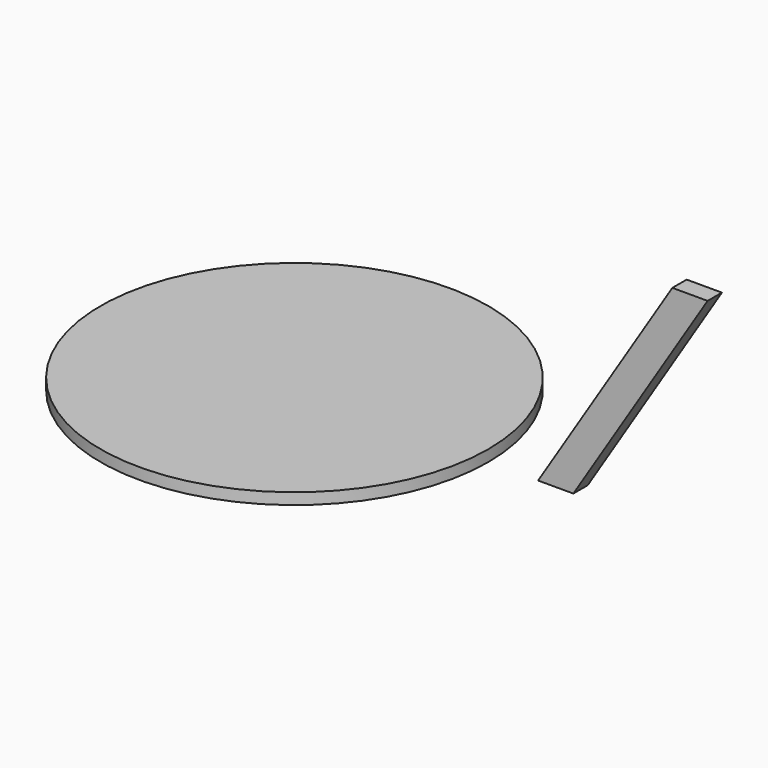
from build123d import *

# Parameters (mm, degrees)
F1_DEPTH = 60
F2_R     = 650
F3_DEPTH = 38


with BuildPart() as f1:
    # F0 (on Front) → F1 (new body)
    with BuildSketch(Plane.XZ):
        Polygon((450, 715), (0, 0), (118.156988, 0), (568.156988, 715), align=None)
    extrude(amount=F1_DEPTH)


with BuildPart() as f3:
    # F2 (on Top) → F3 (new body)
    with BuildSketch(Plane.XY):
        with Locations((-817.069113, -59.63679)):
            Circle(F2_R)
    extrude(amount=F3_DEPTH)


solid = Compound([f1.part, f3.part])
